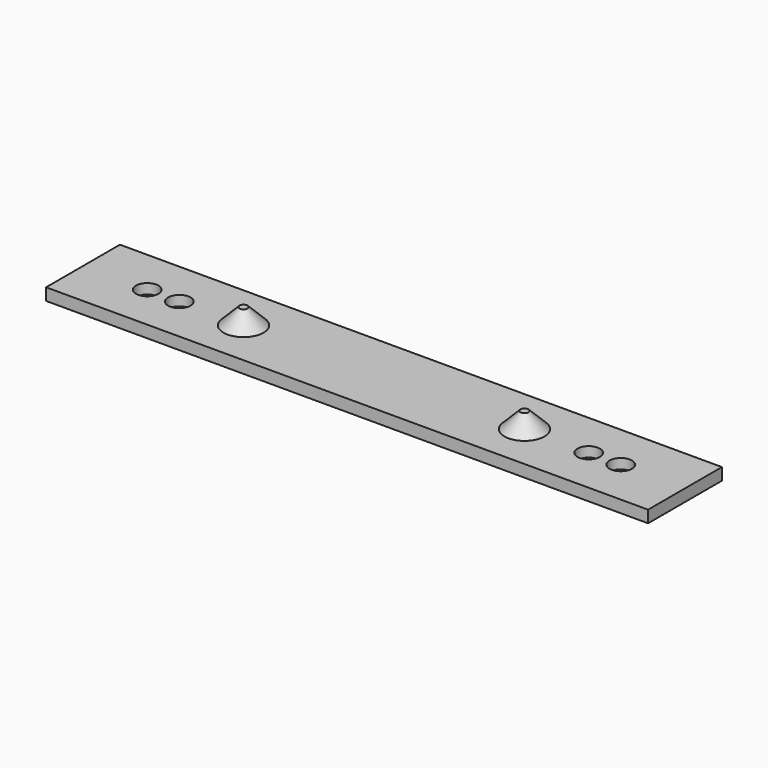
from build123d import *

# Parameters (mm, degrees)
CYLINDER002_R     = 2.8
CYLINDER002_DEPTH = 2.5
CYLINDER001_R     = 2.8
CYLINDER001_DEPTH = 2.5
CYLINDER003_R     = 2.8
CYLINDER003_DEPTH = 2.5
CYLINDER_R        = 2.8
CYLINDER_DEPTH    = 2.5
BOX_W             = 150
BOX_H             = 23
BOX_DEPTH         = 3


with BuildPart() as cylinder002:
    # Cylinder002 → Cylinder002 (new body)
    with BuildSketch(Plane(origin=(126, 11.5, 0.5), x_dir=(1, 0, 0), z_dir=(0, 0, 1))):
        Circle(CYLINDER002_R)
    extrude(amount=CYLINDER002_DEPTH)


with BuildPart() as cylinder001:
    # Cylinder001 → Cylinder001 (new body)
    with BuildSketch(Plane(origin=(24, 11.5, 0.5), x_dir=(1, 0, 0), z_dir=(0, 0, 1))):
        Circle(CYLINDER001_R)
    extrude(amount=CYLINDER001_DEPTH)


with BuildPart() as cylinder003:
    # Cylinder003 → Cylinder003 (new body)
    with BuildSketch(Plane(origin=(134, 11.5, 0.5), x_dir=(1, 0, 0), z_dir=(0, 0, 1))):
        Circle(CYLINDER003_R)
    extrude(amount=CYLINDER003_DEPTH)


with BuildPart() as fusion:
    # Cylinder → Cylinder (new body)
    with BuildSketch(Plane(origin=(16, 11.5, 0.5), x_dir=(1, 0, 0), z_dir=(0, 0, 1))):
        Circle(CYLINDER_R)
    extrude(amount=CYLINDER_DEPTH)

    # Fusion: union Cylinder002, Cylinder001, Cylinder003
    add(cylinder002.part)
    add(cylinder001.part)
    add(cylinder003.part)


with BuildPart() as cone:
    # Cone → Cone (revolve)
    with BuildSketch(Plane(origin=(40, 11.5, 3), x_dir=(1, 0, 0), z_dir=(0, -1, 0))):
        Polygon((0, 0), (5, 0), (1, 4), (0, 4), align=None)
    revolve(axis=Axis((40, 11.5, 3), (0, 0, 1)))


with BuildPart() as base:
    # Box → Box (new body)
    with BuildSketch(Plane.XY):
        with Locations((75, 11.5)):
            Rectangle(BOX_W, BOX_H)
    extrude(amount=BOX_DEPTH)


with BuildPart() as bottom:
    # Cone001 → Cone001 (revolve)
    with BuildSketch(Plane(origin=(110, 11.5, 3), x_dir=(1, 0, 0), z_dir=(0, -1, 0))):
        Polygon((0, 0), (5, 0), (1, 4), (0, 4), align=None)
    revolve(axis=Axis((110, 11.5, 3), (0, 0, 1)))

    # Fusion001: union Cone, base
    add(cone.part)
    add(base.part)

    # Cut: cut Fusion
    add(fusion.part, mode=Mode.SUBTRACT)


solid = bottom.part
